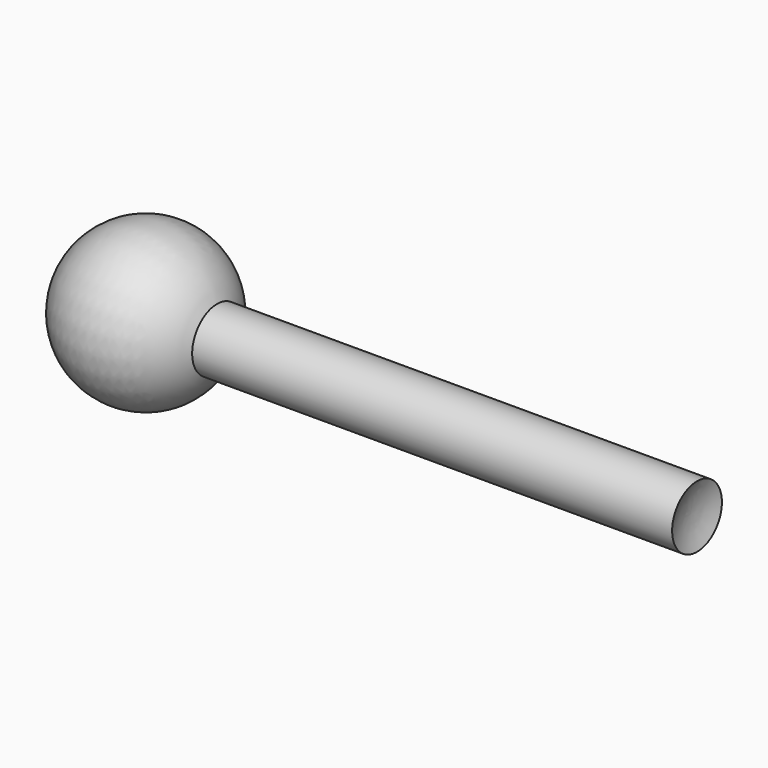
from build123d import *


with BuildPart() as f1:
    # F0 (on Front) → F1 (revolve)
    with BuildSketch(Plane.XZ):
        with BuildLine():
            ThreePointArc((24.339742, 5.08), (10.105268, 12.43211), (0, 0))
            Line((0, 0), (25.4, 0))
            ThreePointArc((25.4, 0), (25.13211, 2.594732), (24.339742, 5.08))
        make_face()
        with BuildLine():
            ThreePointArc((24.339742, 5.08), (25.13211, 2.594732), (25.4, 0))
            Line((25.4, 0), (101.6, 0))
            ThreePointArc((101.6, 0), (101.86789, 2.594732), (102.660258, 5.08))
            Line((102.660258, 5.08), (24.339742, 5.08))
        make_face()
    revolve(axis=Axis((63.5, 0, 0), (1, 0, 0)))


solid = f1.part
